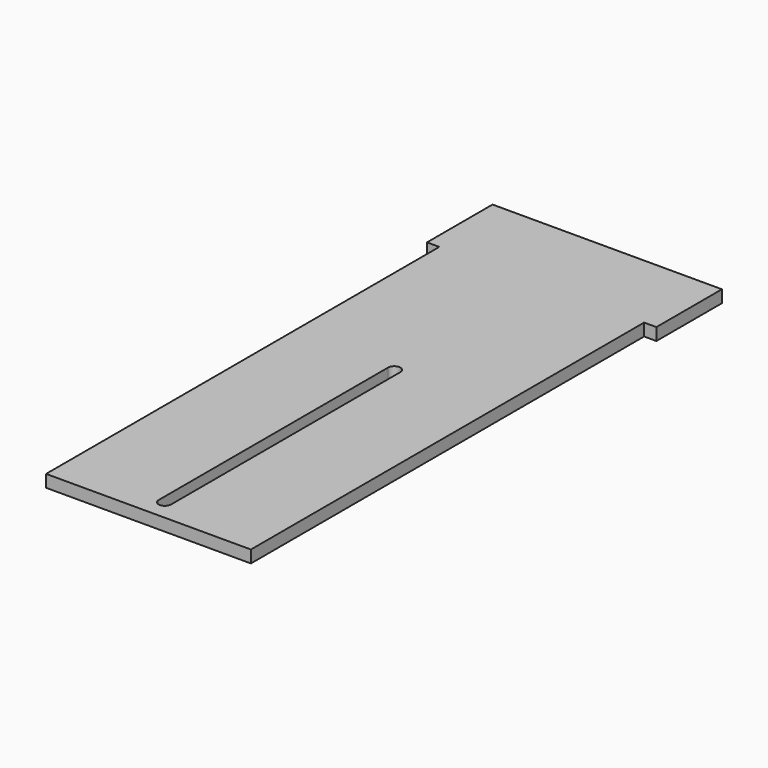
from build123d import *

# Parameters (mm, degrees)
F1_DEPTH = 3


with BuildPart() as f1:
    # F0 (on Top) → F1 (new body)
    with BuildSketch(Plane.XY):
        Polygon((-92.604274, -0.498616), (-92.604274, -120.498616), (-42.604274, -120.498616), (-42.604274, -0.498616), (-39.604274, -0.498616), (-39.604274, 19.501384), (-42.604274, 19.501384), (-92.604274, 19.501384), (-95.604274, 19.501384), (-95.604274, -0.498616), align=None)
        with BuildLine():
            Line((-69.104274, -115.498616), (-69.104274, -45.498616))
            ThreePointArc((-69.104274, -45.498616), (-67.604274, -43.998616), (-66.104274, -45.498616))
            Line((-66.104274, -45.498616), (-66.104274, -115.498616))
            ThreePointArc((-66.104274, -115.498616), (-67.604274, -116.998616), (-69.104274, -115.498616))
        make_face(mode=Mode.SUBTRACT)
    extrude(amount=F1_DEPTH)


solid = f1.part
